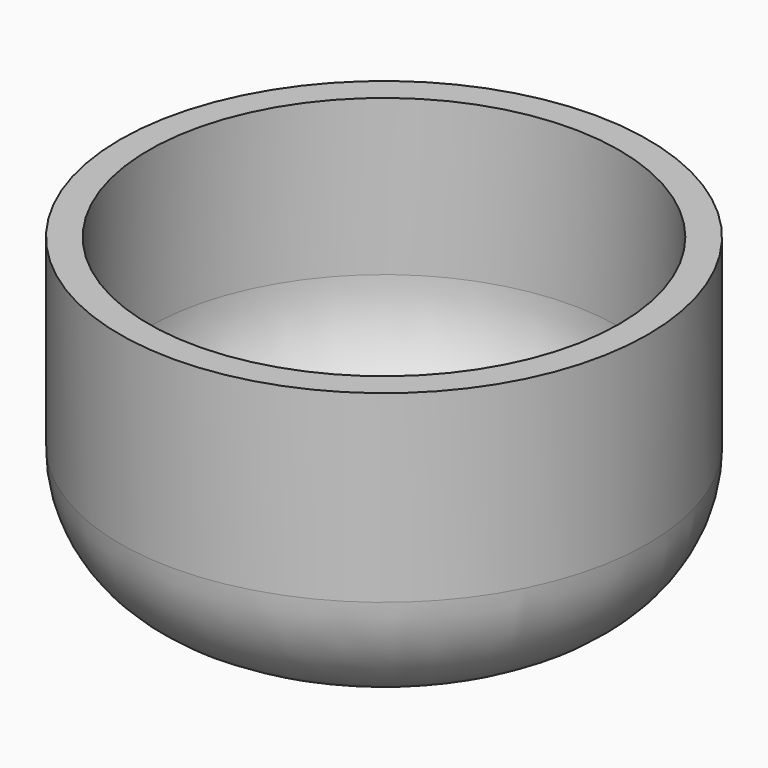
from build123d import *

# Parameters (mm, degrees)
F0_R     = 12.9
F1_DEPTH = 15
F2_T     = -1.4
F3_R     = 6


with BuildPart() as f1:
    # F0 (on Top) → F1 (new body)
    with BuildSketch(Plane.XY):
        Circle(F0_R)
    extrude(amount=F1_DEPTH)

    # F2
    f2_openings = [f1.faces().sort_by_distance(p)[0] for p in [
        (0, 0, 15),
    ]]
    offset(amount=F2_T, openings=f2_openings)

    # F3
    f3_edges = [f1.edges().sort_by_distance(p)[0] for p in [
        (-11.5, 0, 1.4),
        (-12.9, 0, 0),
    ]]
    fillet(f3_edges, radius=F3_R)


solid = f1.part
